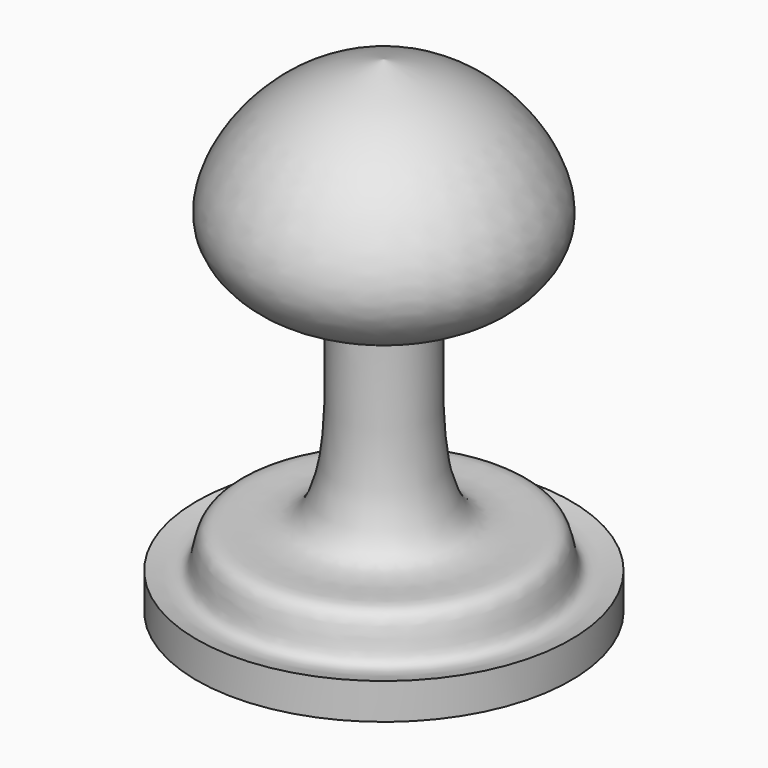
from build123d import *


with BuildPart() as f2:
    # F0 (on Front) → F2 (revolve)
    with BuildSketch(Plane.XZ):
        with BuildLine():
            Line((-19.5006150752, -76.3148963451), (0, -76.3148963451))
            Line((0, -76.3148963451), (0, -25.6883036345))
            add(Edge.make_bspline(
                [(-19.5006150752, -72.5647732615), (-18.1239951674, -72.9419206808), (-15.2414355834, -73.7316447737), (-15.966088409, -66.6482457085), (-3.7758515641, -71.8634951163), (-5.1320896278, -49.9503651617), (-4.6667298906, -46.4175510043), (-9.1049261316, -48.1204078428), (-18.646589022, -41.3706569032), (-10.6701447395, -28.5669802882), (-3.5053300001, -26.6339994879), (0, -25.6883036345)],
                knots=[0, 0, 0, 0, 0.0763176282, 0.1598045397, 0.27137624, 0.4485539646, 0.5162005796, 0.5925182236, 0.7173601904, 0.8617206669, 1, 1, 1, 1], degree=3))
            Line((-19.5006150752, -72.5647732615), (-19.5006150752, -76.3148963451))
        make_face()
    revolve(axis=Axis((0, 0, -24.3757609278), (0, 0, -1)))


solid = f2.part
